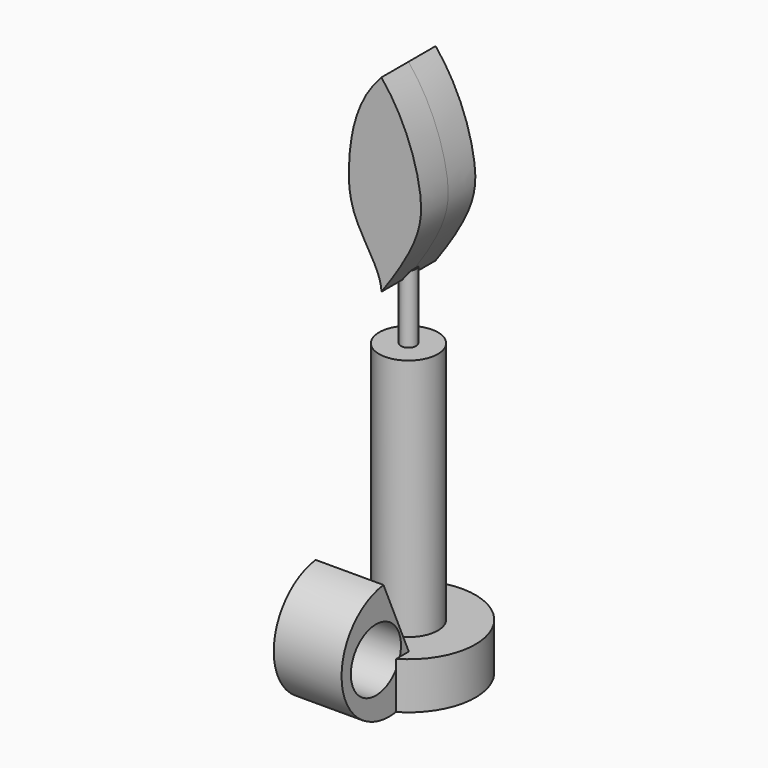
from build123d import *

# Parameters (mm, degrees)
F0_R      = 25.0862676095
F0_R_2    = 9.9212052261
F1_DEPTH  = 17.526
F2_R      = 11.0191356669
F3_DEPTH  = 108.712
F5_R      = 2.8727507543
F6_DEPTH  = 25.4
F8_DEPTH  = 12.7
F9_R      = 11.7410453839
F10_DEPTH = 12.7
F12_DEPTH = 12.7


with BuildPart() as f1:
    # F0 (on Top) → F1 (new body)
    with BuildSketch(Plane.XY):
        Circle(F0_R)
        Circle(F0_R_2, mode=Mode.SUBTRACT)
    extrude(amount=F1_DEPTH)

    # F2 (on Top) → F3 (join)
    with BuildSketch(Plane.XY):
        Circle(F2_R)
    extrude(amount=F3_DEPTH)

    # F5 (on offset) → F6 (join)
    with BuildSketch(Plane.XY.offset(134.112)):
        Circle(F5_R)
    extrude(amount=-F6_DEPTH)

    # F7 (on Right) → F8 (join, symmetric)
    with BuildSketch(Plane.YZ):
        with BuildLine():
            Line((-14.0056908131, 13.5905332863), (-27.6115936243, 44.3398724095))
            ThreePointArc((-27.6115936243, 44.3398724095), (-47.0539529538, 19.3601672357), (-22.0104921012, 0))
            Line((-22.0104921012, 0), (-14.0056908131, 13.5905332863))
        make_face()
    extrude(amount=F8_DEPTH, both=True)

    # F9 (on Right) → F10 (cut, symmetric)
    with BuildSketch(Plane.YZ):
        with Locations((-31.1411302537, 21.0428796709)):
            Circle(F9_R)
    extrude(amount=F10_DEPTH, both=True, mode=Mode.SUBTRACT)

    # F11 (on Front) → F12 (join, symmetric)
    with BuildSketch(Plane.XZ):
        with BuildLine():
            add(Edge.make_bspline(
                [(0, 201.5375494957), (8.2067918749, 191.5956386678), (17.6385011209, 165.7506647475), (14.33397457, 150.9642153978), (0, 130.8100919055)],
                knots=[0, 0, 0, 0, 0.4810826992, 1, 1, 1, 1], degree=3))
            add(Edge.make_bspline(
                [(0, 201.5375494957), (-9.1203246266, 192.0092403889), (-13.1277565836, 171.0788275856), (-11.6600287617, 151.1036541195), (0, 137.038230896), (0, 130.8100919055)],
                knots=[0, 0, 0, 0, 0.3852312794, 0.6845969407, 1, 1, 1, 1], degree=3))
        make_face()
    extrude(amount=F12_DEPTH, both=True)


solid = f1.part
